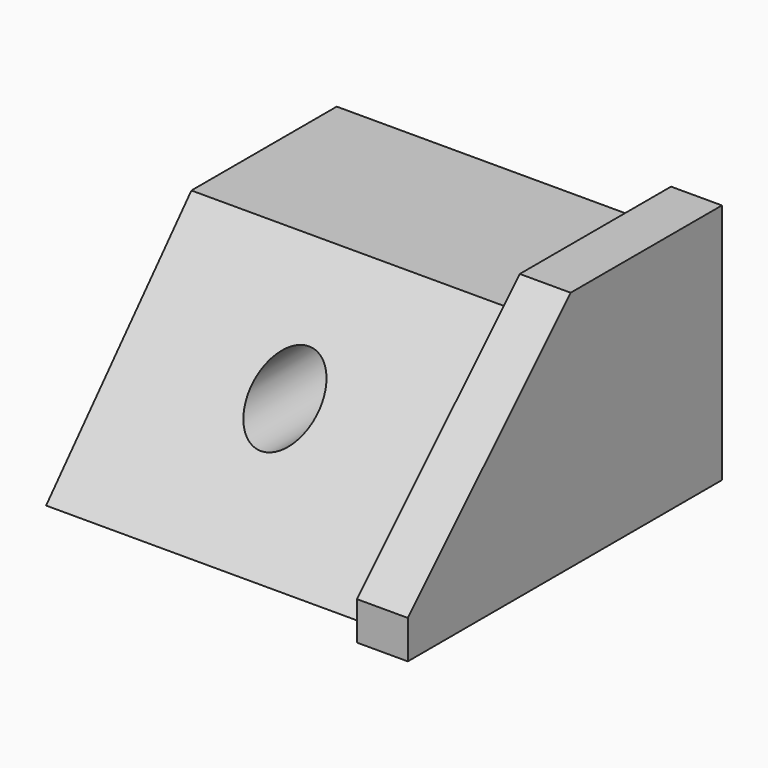
from build123d import *

# Parameters (mm, degrees)
F0_W     = 83.440322
F0_H     = 90.671822
F1_DEPTH = 50.8
F3_DEPTH = 83.441322
F4_R     = 8.441075
F5_DEPTH = 90.672822
F7_DEPTH = 12.7
F8_SIZE  = 50.8


with BuildPart() as f1:
    # F0 (on Top) → F1 (new body)
    with BuildSketch(Plane.XY):
        with Locations((1.29796, 0)):
            Rectangle(F0_W, F0_H)
    extrude(amount=F1_DEPTH)

    # F2 (on face) → F3 (cut, through all)
    with BuildSketch(Plane(origin=(-40.422201, 0, 0), x_dir=(0, -1, 0), z_dir=(-1, 0, 0))):
        Polygon((45.335911, 50.8), (0, 50.8), (45.335911, 0), align=None)
    extrude(amount=-F3_DEPTH, mode=Mode.SUBTRACT)

    # F4 (on face) → F5 (cut, through all)
    with BuildSketch(Plane(origin=(0, 45.335911, 0), x_dir=(-1, 0, 0), z_dir=(0, 1, 0))):
        with Locations((0, 26.879085)):
            Circle(F4_R)
    extrude(amount=-F5_DEPTH, mode=Mode.SUBTRACT)

    # F6 (on face) → F7 (join)
    with BuildSketch(Plane.YZ.offset(43.018121)):
        Polygon((-45.335911, 0), (45.335911, 0), (45.335911, 50.8), (0, 50.8), align=None)
        Polygon((-52.660115, 0), (-45.335911, 0), (0, 50.8), (45.335911, 50.8), (45.335911, 60.355168), (-52.660115, 60.355168), align=None)
    extrude(amount=F7_DEPTH)

    # F8
    f8_edges = [f1.edges().sort_by_distance(p)[0] for p in [
        (49.368121, -52.660115, 60.355168),
    ]]
    chamfer(f8_edges, length=F8_SIZE)


solid = f1.part
